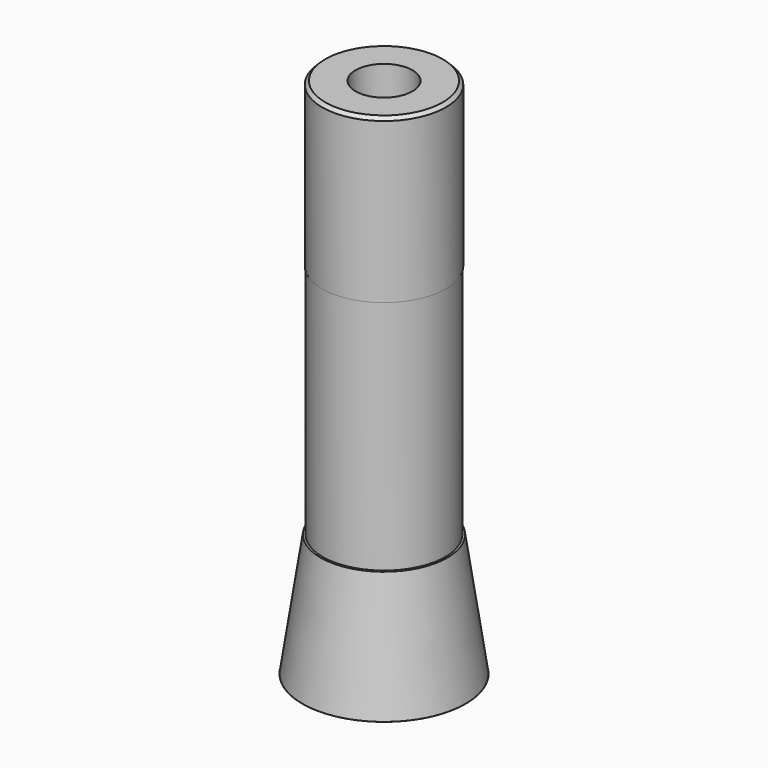
from build123d import *

# Parameters (mm, degrees)
F3_D     = 11.1125
F3_DEPTH = 31.75
F3_TIP   = 3.3385318145
F4_SIZE  = 0.635
F9_D     = 19.9898
F9_DEPTH = 25.4
F9_START = 2.3646856
F9_TIP   = 6.0055418011


with BuildPart() as f1:
    # F0 (on Front) → F1 (revolve)
    with BuildSketch(Plane.XZ):
        Polygon((-15.875, 0), (0, 0), (0, 101.6), (-12.0523, 101.6), (-12.0523, 69.85), (-11.938, 69.85), (-11.938, 26.5810513018), (-11.938, 23.876), (-12.3386533396, 23.876), align=None)
    revolve(axis=Axis((0, 0, 57.15), (0, 0, 1)))

    # F3
    with Locations(Plane.XY.offset(101.6)):
        with Locations((0, 0)):
            Hole(F3_D / 2, depth=F3_DEPTH)
            with Locations((0, 0, -(F3_DEPTH + F3_TIP / 2))):  # 118° drill point
                Cone(0, F3_D / 2, F3_TIP, mode=Mode.SUBTRACT)

    # F4
    f4_edges = [f1.edges().sort_by_distance(p)[0] for p in [
        (12.0523, 0, 101.6),
    ]]
    chamfer(f4_edges, length=F4_SIZE)

    # F5 (on Right) → F6 (revolve)
    with BuildSketch(Plane.YZ):
        with BuildLine():
            Line((0, 0), (0, -1.5446243323))
            ThreePointArc((0, -1.5446243323), (7.9846333239, -1.1575608103), (15.8943893541, 0))
            Line((15.8943893541, 0), (0, 0))
        make_face()
    revolve(axis=Axis((0, 0, -1.5006620425), (0, 0, -1)))

    # F9
    # its depths count from where the whole tool has entered the part; down to there all is cleared
    with Locations(Plane(origin=(0, 0, -3.302), x_dir=(1, 0, 0), z_dir=(0, 0, -1)).offset(-F9_START)):
        with Locations((0, 0)):
            Hole(F9_D / 2, depth=F9_DEPTH)
            with Locations((0, 0, -(F9_DEPTH + F9_TIP / 2))):  # 118° drill point
                Cone(0, F9_D / 2, F9_TIP, mode=Mode.SUBTRACT)


solid = f1.part
